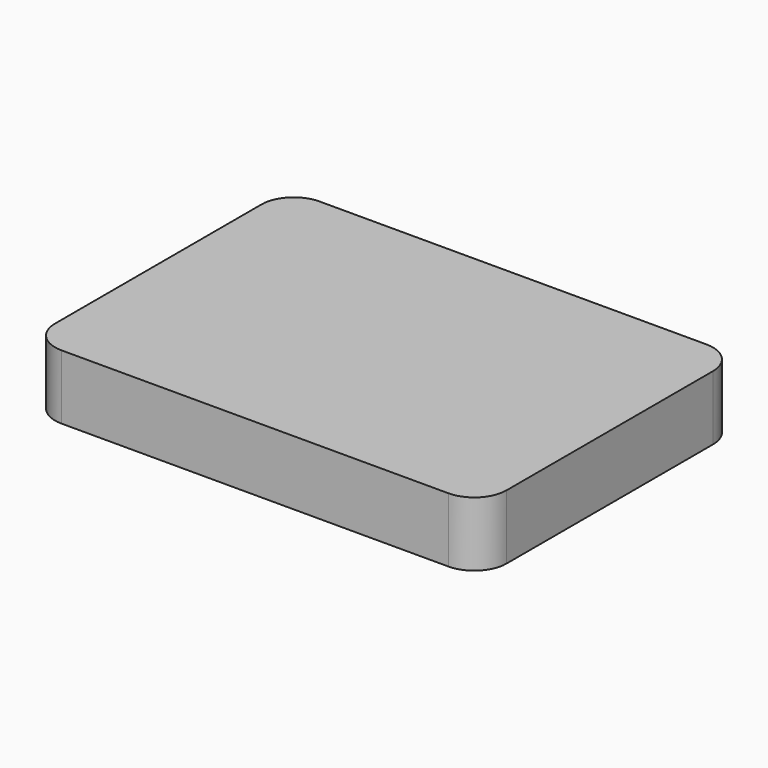
from build123d import *

# Parameters (mm, degrees)
F1_DEPTH = 5
F2_DEPTH = 5


with BuildPart() as f1:
    # F0 (on Top) → F1 (new body)
    with BuildSketch(Plane.XY):
        with BuildLine():
            ThreePointArc((35, 20), (33.535534, 23.535534), (30, 25))
            Line((30, 25), (-30, 25))
            ThreePointArc((-30, 25), (-33.535534, 23.535534), (-35, 20))
            Line((-35, 20), (-35, -20))
            ThreePointArc((-35, -20), (-33.535534, -23.535534), (-30, -25))
            Line((-30, -25), (30, -25))
            ThreePointArc((30, -25), (33.535534, -23.535534), (35, -20))
            Line((35, -20), (35, 20))
        make_face()
        with BuildLine():
            Line((-32, -19), (-32, 19))
            ThreePointArc((-32, 19), (-31.12132, 21.12132), (-29, 22))
            Line((-29, 22), (29, 22))
            ThreePointArc((29, 22), (31.12132, 21.12132), (32, 19))
            Line((32, 19), (32, -19))
            ThreePointArc((32, -19), (31.12132, -21.12132), (29, -22))
            Line((29, -22), (-29, -22))
            ThreePointArc((-29, -22), (-31.12132, -21.12132), (-32, -19))
        make_face(mode=Mode.SUBTRACT)
        with BuildLine():
            ThreePointArc((-29, 22), (-31.12132, 21.12132), (-32, 19))
            Line((-32, 19), (-32, -19))
            ThreePointArc((-32, -19), (-31.12132, -21.12132), (-29, -22))
            Line((-29, -22), (29, -22))
            ThreePointArc((29, -22), (31.12132, -21.12132), (32, -19))
            Line((32, -19), (32, 19))
            ThreePointArc((32, 19), (31.12132, 21.12132), (29, 22))
            Line((29, 22), (-29, 22))
        make_face()
    extrude(amount=F1_DEPTH)

    # F0 (on Top) → F2 (join)
    with BuildSketch(Plane.XY):
        with BuildLine():
            ThreePointArc((35, 20), (33.535534, 23.535534), (30, 25))
            Line((30, 25), (-30, 25))
            ThreePointArc((-30, 25), (-33.535534, 23.535534), (-35, 20))
            Line((-35, 20), (-35, -20))
            ThreePointArc((-35, -20), (-33.535534, -23.535534), (-30, -25))
            Line((-30, -25), (30, -25))
            ThreePointArc((30, -25), (33.535534, -23.535534), (35, -20))
            Line((35, -20), (35, 20))
        make_face()
        with BuildLine():
            Line((-32, -19), (-32, 19))
            ThreePointArc((-32, 19), (-31.12132, 21.12132), (-29, 22))
            Line((-29, 22), (29, 22))
            ThreePointArc((29, 22), (31.12132, 21.12132), (32, 19))
            Line((32, 19), (32, -19))
            ThreePointArc((32, -19), (31.12132, -21.12132), (29, -22))
            Line((29, -22), (-29, -22))
            ThreePointArc((-29, -22), (-31.12132, -21.12132), (-32, -19))
        make_face(mode=Mode.SUBTRACT)
    extrude(amount=-F2_DEPTH)


solid = f1.part
